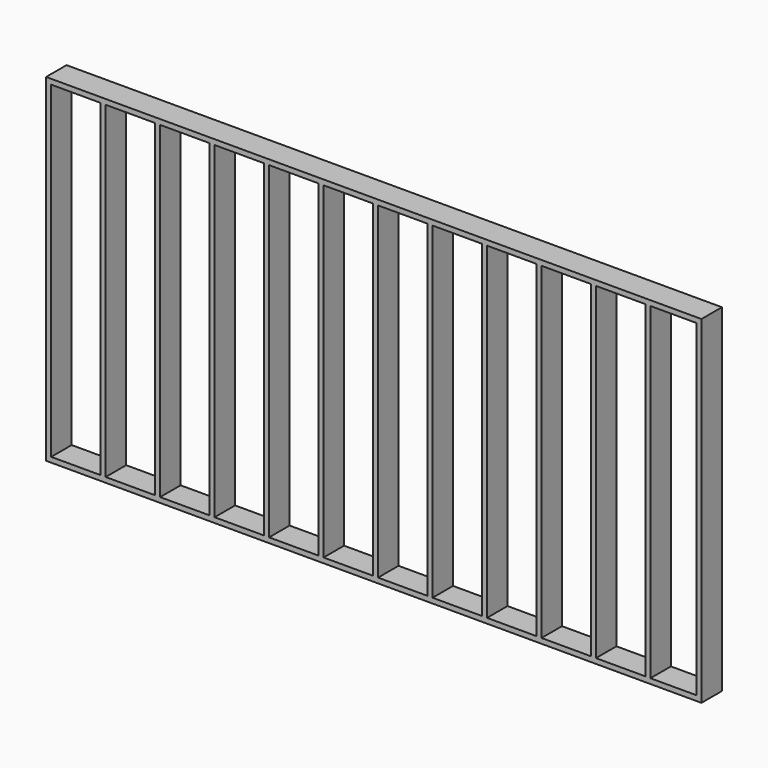
from build123d import *

# Parameters (mm, degrees)
F0_W     = 4876.8
F0_H     = 190.5
F1_DEPTH = 38.1
F2_W     = 38.1
F2_H     = 190.5
F3_DEPTH = 2438.4
F4_W     = 4876.8
F4_H     = 190.5
F5_DEPTH = 38.1


with BuildPart() as f1:
    # F0 (on Top) → F1 (new body)
    with BuildSketch(Plane.XY):
        with Locations((2438.4, 95.25)):
            Rectangle(F0_W, F0_H)
    extrude(amount=F1_DEPTH)

    # F2 (on face) → F3 (join)
    with BuildSketch(Plane.XY.offset(38.1)):
        with Locations((19.05, 95.25)):
            Rectangle(F2_W, F2_H)
        with Locations((424.434, 95.25)):
            Rectangle(F2_W, F2_H)
        with Locations((829.818, 95.25)):
            Rectangle(F2_W, F2_H)
        with Locations((1235.202, 95.25)):
            Rectangle(F2_W, F2_H)
        with Locations((1640.586, 95.25)):
            Rectangle(F2_W, F2_H)
        with Locations((2045.97, 95.25)):
            Rectangle(F2_W, F2_H)
        with Locations((2451.354, 95.25)):
            Rectangle(F2_W, F2_H)
        with Locations((2856.738, 95.25)):
            Rectangle(F2_W, F2_H)
        with Locations((3262.122, 95.25)):
            Rectangle(F2_W, F2_H)
        with Locations((3667.506, 95.25)):
            Rectangle(F2_W, F2_H)
        with Locations((4072.89, 95.25)):
            Rectangle(F2_W, F2_H)
        with Locations((4478.274, 95.25)):
            Rectangle(F2_W, F2_H)
        with Locations((4857.75, 95.25)):
            Rectangle(F2_W, F2_H)
    extrude(amount=F3_DEPTH)

    # F4 (on face) → F5 (join)
    with BuildSketch(Plane.XY.offset(2476.5)):
        with Locations((2438.4, 95.25)):
            Rectangle(F4_W, F4_H)
    extrude(amount=F5_DEPTH)


solid = f1.part
